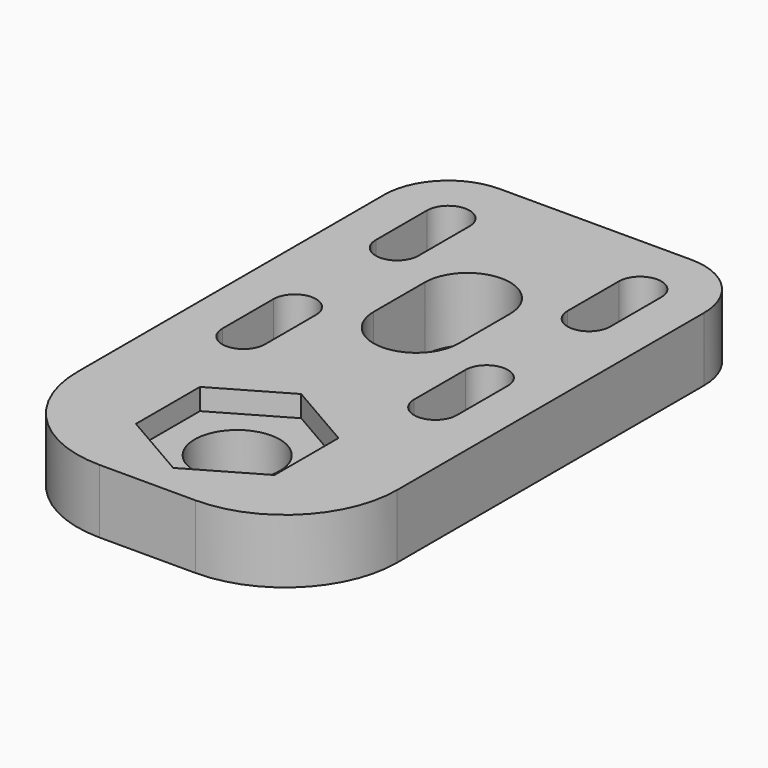
from build123d import *

# Parameters (mm, degrees)
SKETCH_R     = 4
PAD_DEPTH    = 6
POCKET_DEPTH = 2


with BuildPart() as part:
    # Sketch → Pad (new body)
    with BuildSketch(Plane.XY):
        with BuildLine():
            Line((-9, 18), (9, 18))
            ThreePointArc((15, 12), (13.242641, 16.242641), (9, 18))
            Line((15, 12), (15, -24))
            ThreePointArc((4.494447, -34.505553), (11.922995, -31.428548), (15, -24))
            Line((4.494447, -34.505553), (-4.494447, -34.505553))
            ThreePointArc((-15, -24), (-11.922995, -31.428548), (-4.494447, -34.505553))
            Line((-15, -24), (-15, 12))
            ThreePointArc((-9, 18), (-13.242641, 16.242641), (-15, 12))
        make_face()
        with Locations((0, -24)):
            Circle(SKETCH_R, mode=Mode.SUBTRACT)
        with BuildLine():
            ThreePointArc((7, 6), (9, 4), (11, 6))
            Line((11, 6), (11, 12))
            ThreePointArc((11, 12), (9, 14), (7, 12))
            Line((7, 6), (7, 12))
        make_face(mode=Mode.SUBTRACT)
        with BuildLine():
            ThreePointArc((-11, 6), (-9, 4), (-7, 6))
            Line((-7, 6), (-7, 12))
            ThreePointArc((-7, 12), (-9, 14), (-11, 12))
            Line((-11, 6), (-11, 12))
        make_face(mode=Mode.SUBTRACT)
        with BuildLine():
            ThreePointArc((7, -12), (9, -14), (11, -12))
            Line((11, -12), (11, -6))
            ThreePointArc((11, -6), (9, -4), (7, -6))
            Line((7, -12), (7, -6))
        make_face(mode=Mode.SUBTRACT)
        with BuildLine():
            ThreePointArc((-11, -12), (-9, -14), (-7, -12))
            Line((-7, -12), (-7, -6))
            ThreePointArc((-7, -6), (-9, -4), (-11, -6))
            Line((-11, -12), (-11, -6))
        make_face(mode=Mode.SUBTRACT)
        with BuildLine():
            ThreePointArc((-4, -3), (0, -7), (4, -3))
            Line((4, -3), (4, 3))
            ThreePointArc((4, 3), (0, 7), (-4, 3))
            Line((-4, -3), (-4, 3))
        make_face(mode=Mode.SUBTRACT)
    extrude(amount=PAD_DEPTH)

    # Sketch001 (on Face31 of Pad) → Pocket (cut)
    with BuildSketch(Plane.XY.offset(6)):
        Polygon((6.5, -20.247223), (0, -16.494447), (-6.5, -20.247223), (-6.5, -27.752777), (0, -31.505553), (6.5, -27.752777), align=None)
    extrude(amount=-POCKET_DEPTH, mode=Mode.SUBTRACT)


solid = part.part
